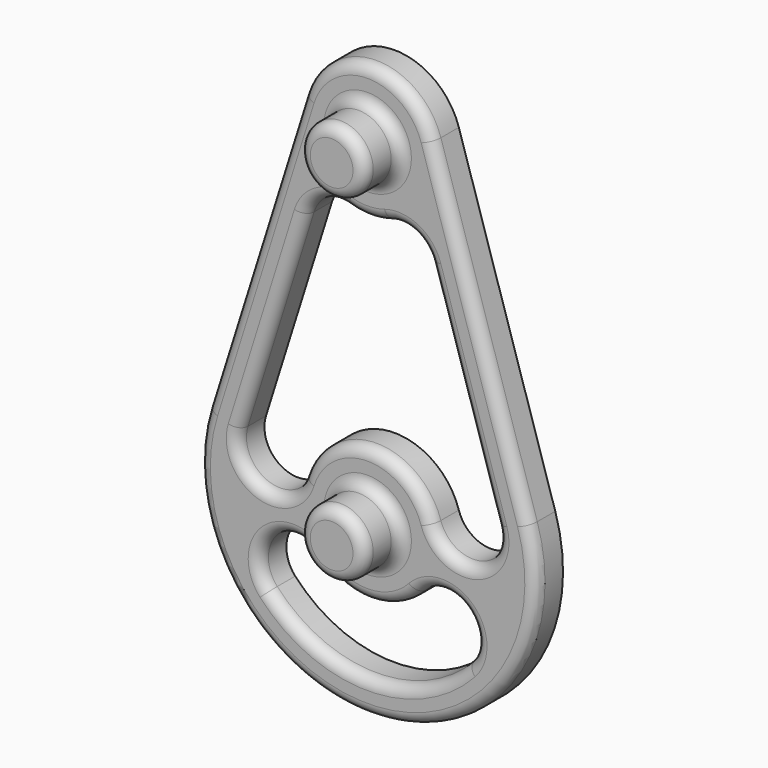
from build123d import *

# Parameters (mm, degrees)
PAD006_DEPTH = 3
SKETCH012_R  = 2.9
PAD007_DEPTH = 4
FILLET_R     = 1


with BuildPart() as part:
    # Sketch011 → Pad006 (new body)
    with BuildSketch(Plane.XZ):
        with BuildLine():
            ThreePointArc((5.723635, 31.8), (0, 36), (-5.723635, 31.8))
            Line((-14.309088, 4.5), (-5.723635, 31.8))
            ThreePointArc((-14.309088, 4.5), (0, -15), (14.309088, 4.5))
            Line((5.723635, 31.8), (14.309088, 4.5))
        make_face()
        with BuildLine():
            ThreePointArc((-11.44727, 3.6), (-9.485453, -0.161818), (-5.723635, 1.8))
            ThreePointArc((5.723635, 1.800001), (0, 6), (-5.723635, 1.8))
            ThreePointArc((5.723635, 1.800001), (9.485452, -0.161817), (11.44727, 3.6))
            Line((11.44727, 3.6), (5.561818, 22.314547))
            ThreePointArc((5.561818, 22.314547), (4.087215, 24.074554), (1.8, 24.276365))
            ThreePointArc((-1.8, 24.276365), (0, 24), (1.8, 24.276365))
            ThreePointArc((-1.8, 24.276365), (-4.087215, 24.074554), (-5.561818, 22.314547))
            Line((-5.561818, 22.314547), (-11.44727, 3.6))
        make_face(mode=Mode.SUBTRACT)
        with BuildLine():
            ThreePointArc((-4.420663, -4.056813), (-8.659402, -3.874889), (-8.841327, -8.113627))
            ThreePointArc((-8.841327, -8.113627), (0, -12), (8.841327, -8.113627))
            ThreePointArc((8.841327, -8.113627), (8.659402, -3.874889), (4.420663, -4.056813))
            ThreePointArc((-4.420663, -4.056813), (0, -6), (4.420663, -4.056813))
        make_face(mode=Mode.SUBTRACT)
    extrude(amount=PAD006_DEPTH)

    # Sketch012 (on Face18 of Pad006) → Pad007 (join)
    with BuildSketch(Plane.XZ.offset(3)):
        Circle(SKETCH012_R)
        with Locations((0, 30)):
            Circle(SKETCH012_R)
    extrude(amount=PAD007_DEPTH)

    # Fillet
    fillet_edges = [part.edges().sort_by_distance(p)[0] for p in [
        (0, -3, 36),
        (10.016362, -3, 18.15),
        (-10.016362, -3, 18.15),
        (0, -3, -15),
        (-8.659402, -3, -3.874889),
        (0, -3, -6),
        (0, -3, -12),
        (8.659402, -3, -3.874889),
        (-2.9, -3, 0),
        (-4.087215, -3, 24.074554),
        (0, -3, 24),
        (-8.504544, -3, 12.957274),
        (4.087215, -3, 24.074554),
        (-9.485453, -3, -0.161818),
        (8.504544, -3, 12.957274),
        (0, -3, 6),
        (9.485452, -3, -0.161817),
        (-2.9, -3, 30),
        (-2.9, -7, 30),
        (-2.9, -7, 0),
    ]]
    fillet(fillet_edges, radius=FILLET_R)


solid = part.part
